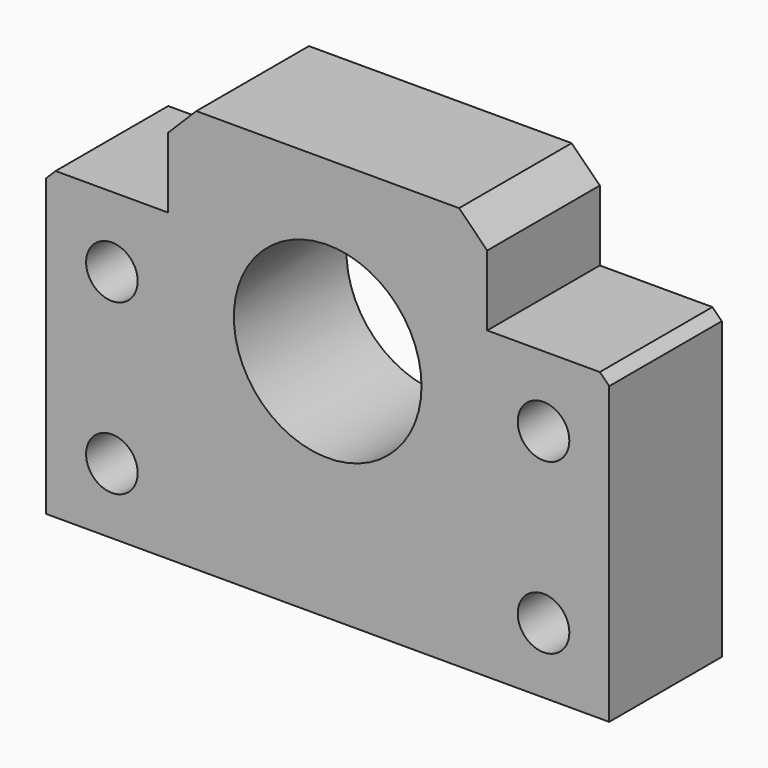
from build123d import *

# Parameters (mm, degrees)
F1_DEPTH = 7.5
F2_R     = 10
F2_R_2   = 2.75
F3_DEPTH = 15
F4_SIZE  = 3
F5_SIZE  = 1


with BuildPart() as f1:
    # F0 (on Front) → F1 (new body, symmetric)
    with BuildSketch(Plane.XZ):
        Polygon((17, 11), (17, 21.5), (-17, 21.5), (-17, 11), (-30, 11), (-30, -21.5), (30, -21.5), (30, 11), align=None)
    extrude(amount=F1_DEPTH, both=True)

    # F2 (on face) → F3 (cut)
    with BuildSketch(Plane.XZ.offset(7.5)):
        with Locations((0, 3.5)):
            Circle(F2_R)
        with Locations((-23, 3.5)):
            Circle(F2_R_2)
        with Locations((23, 3.5)):
            Circle(F2_R_2)
        with Locations((-23, -14.5)):
            Circle(F2_R_2)
        with Locations((23, -14.5)):
            Circle(F2_R_2)
    extrude(amount=-F3_DEPTH, mode=Mode.SUBTRACT)

    # F4
    f4_edges = [f1.edges().sort_by_distance(p)[0] for p in [
        (17, 0, 21.5),
        (-17, 0, 21.5),
    ]]
    chamfer(f4_edges, length=F4_SIZE)

    # F5
    f5_edges = [f1.edges().sort_by_distance(p)[0] for p in [
        (-30, 0, 11),
        (30, 0, 11),
    ]]
    chamfer(f5_edges, length=F5_SIZE)


solid = f1.part
